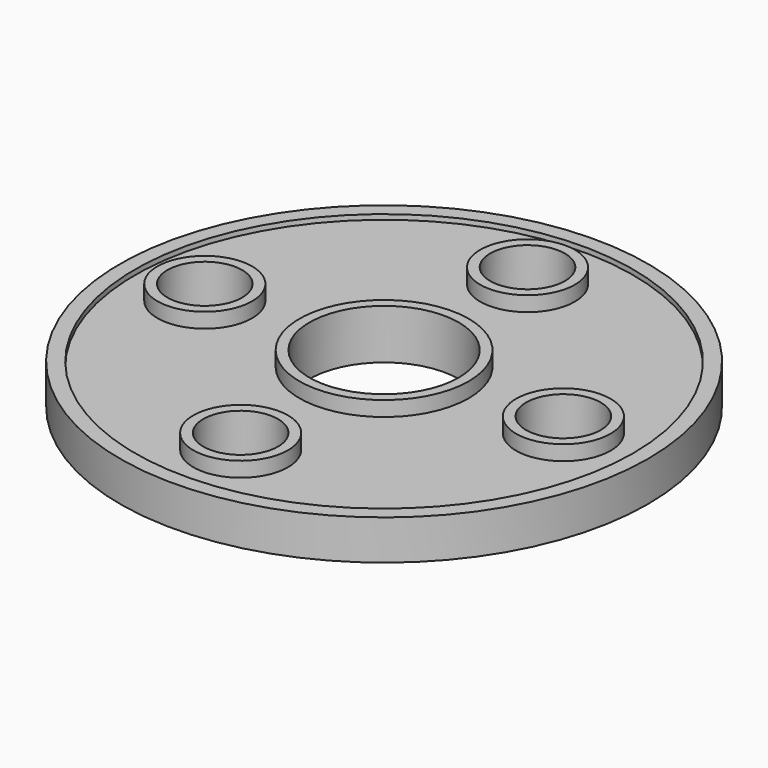
from build123d import *

# Parameters (mm, degrees)
F0_R        = 53
F0_R_2      = 50
F1_DEPTH    = 7
F1_FACE_R   = 53
F1_FACE_R_2 = 50
F2_DEPTH    = 1
F0_R_3      = 9.5
F0_R_4      = 17
F3_DEPTH    = 7
F0_R_5      = 7.5
F0_R_6      = 15
F5_DEPTH    = 10


with BuildPart() as f1:
    # F0 (on Top) → F1 (new body)
    with BuildSketch(Plane.XY):
        Circle(F0_R)
        Circle(F0_R_2, mode=Mode.SUBTRACT)
    extrude(amount=F1_DEPTH)

    # F1_face (on face) + F0 (on Top) → F2 (join)
    with BuildSketch(Plane.XY.offset(7)):
        Circle(F1_FACE_R)
        Circle(F1_FACE_R_2, mode=Mode.SUBTRACT)
    with BuildSketch(Plane.XY):
        Circle(F0_R)
        Circle(F0_R_2, mode=Mode.SUBTRACT)
    extrude(amount=F2_DEPTH)

    # F0 (on Top) → F3 (join)
    with BuildSketch(Plane.XY):
        Circle(F0_R_2)
        with Locations((0, -36)):
            Circle(F0_R_3, mode=Mode.SUBTRACT)
        with Locations((-36, 0)):
            Circle(F0_R_3, mode=Mode.SUBTRACT)
        Circle(F0_R_4, mode=Mode.SUBTRACT)
        with Locations((36, 0)):
            Circle(F0_R_3, mode=Mode.SUBTRACT)
        with Locations((0, 36)):
            Circle(F0_R_3, mode=Mode.SUBTRACT)
    extrude(amount=F3_DEPTH)

    # F0 (on Top) → F5 (join)
    with BuildSketch(Plane.XY):
        with Locations((-36, 0)):
            Circle(F0_R_3)
        with Locations((-36, 0)):
            Circle(F0_R_5, mode=Mode.SUBTRACT)
        with Locations((0, -36)):
            Circle(F0_R_3)
        with Locations((0, -36)):
            Circle(F0_R_5, mode=Mode.SUBTRACT)
        with Locations((36, 0)):
            Circle(F0_R_3)
        with Locations((36, 0)):
            Circle(F0_R_5, mode=Mode.SUBTRACT)
        with Locations((0, 36)):
            Circle(F0_R_3)
        with Locations((0, 36)):
            Circle(F0_R_5, mode=Mode.SUBTRACT)
        Circle(F0_R_4)
        Circle(F0_R_6, mode=Mode.SUBTRACT)
    extrude(amount=F5_DEPTH)


solid = f1.part
